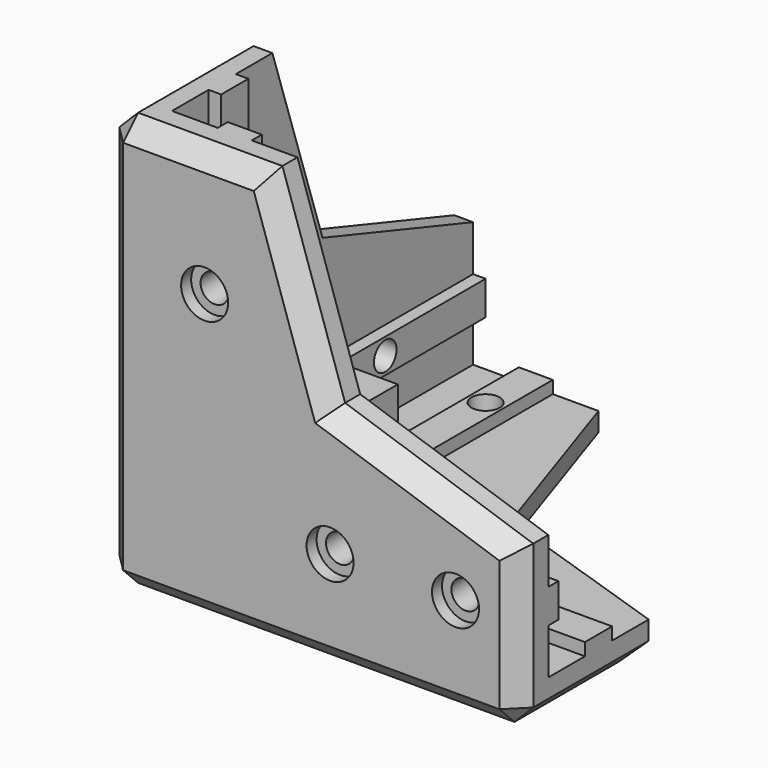
from build123d import *

# Parameters (mm, degrees)
F1_DEPTH  = 6
F3_DEPTH  = 20
F5_DEPTH  = 40
F7_DEPTH  = 60
F9_DEPTH  = 2
F11_DEPTH = 2
F13_DEPTH = 2
F14_R     = 2.25
F15_DEPTH = 8
F16_R     = 2.25
F17_DEPTH = 8
F18_R     = 2.25
F19_DEPTH = 8
F20_R     = 3.75
F21_DEPTH = 2
F22_R     = 3.75
F23_DEPTH = 2
F24_R     = 3.75
F25_DEPTH = 2
F26_W     = 20
F26_H     = 20
F27_DEPTH = 20
F29_DEPTH = 6
F31_DEPTH = 6
F33_DEPTH = 6
F34_SIZE  = 3


with BuildPart() as f1:
    # F0 (on Top) → F1 (new body)
    with BuildSketch(Plane.XY):
        Polygon((0, 66), (0, 0), (66, 0), (66, 26), (26, 26), (26, 66), align=None)
    extrude(amount=F1_DEPTH)

    # F2 (on face) → F3 (join)
    with BuildSketch(Plane.XY.offset(6)):
        Polygon((6, 66), (0, 66), (0, 0), (66, 0), (66, 6), (6, 6), align=None)
    extrude(amount=F3_DEPTH)

    # F4 (on face) → F5 (join)
    with BuildSketch(Plane.XY.offset(26)):
        Polygon((6, 6), (6, 26), (0, 26), (0, 0), (26, 0), (26, 6), align=None)
    extrude(amount=F5_DEPTH)

    # F6 (on face) → F7 (join)
    with BuildSketch(Plane.XY.offset(6)):
        Polygon((13.29, 6), (16, 6), (18.71, 6), (18.71, 8), (13.29, 8), align=None)
        Polygon((6, 18.71), (6, 16), (6, 13.29), (8, 13.29), (8, 18.71), align=None)
    extrude(amount=F7_DEPTH)

    # F8 (on face) → F9 (join)
    with BuildSketch(Plane.XY.offset(6)):
        Polygon((66, 13.29), (66, 16), (66, 18.71), (26, 18.71), (26, 13.29), align=None)
        Polygon((18.71, 66), (16, 66), (13.29, 66), (13.29, 26), (18.71, 26), align=None)
    extrude(amount=F9_DEPTH)

    # F10 (on face) → F11 (join)
    with BuildSketch(Plane(origin=(0, 6, 0), x_dir=(-1, 0, 0), z_dir=(0, 1, 0))):
        Polygon((-66, 18.71), (-66, 16), (-66, 13.29), (-26, 13.29), (-26, 16), (-26, 18.71), align=None)
    extrude(amount=F11_DEPTH)

    # F12 (on face) → F13 (join)
    with BuildSketch(Plane.YZ.offset(6)):
        Polygon((66, 13.29), (66, 16), (66, 18.71), (26, 18.71), (26, 13.29), align=None)
    extrude(amount=F13_DEPTH)

    # F14 (on face) → F15 (cut, through all)
    with BuildSketch(Plane.XZ):
        with Locations((56, 16)):
            Circle(F14_R)
        with Locations((16, 46)):
            Circle(F14_R)
        with Locations((36, 16)):
            Circle(F14_R)
    extrude(amount=-F15_DEPTH, mode=Mode.SUBTRACT)

    # F16 (on face) → F17 (cut, through all)
    with BuildSketch(Plane(origin=(0, 0, 0), x_dir=(0, -1, 0), z_dir=(-1, 0, 0))):
        with Locations((-16, 56)):
            Circle(F16_R)
        with Locations((-46, 16)):
            Circle(F16_R)
        with Locations((-16, 36)):
            Circle(F16_R)
    extrude(amount=-F17_DEPTH, mode=Mode.SUBTRACT)

    # F18 (on face) → F19 (cut, through all)
    with BuildSketch(Plane(origin=(0, 0, 0), x_dir=(1, 0, 0), z_dir=(0, 0, -1))):
        with Locations((46, -16)):
            Circle(F18_R)
        with Locations((16, -56)):
            Circle(F18_R)
        with Locations((16, -36)):
            Circle(F18_R)
    extrude(amount=-F19_DEPTH, mode=Mode.SUBTRACT)

    # F20 (on face) → F21 (cut)
    with BuildSketch(Plane.XZ):
        with Locations((16, 46)):
            Circle(F20_R)
        with Locations((36, 16)):
            Circle(F20_R)
        with Locations((56, 16)):
            Circle(F20_R)
    extrude(amount=-F21_DEPTH, mode=Mode.SUBTRACT)

    # F22 (on face) → F23 (cut)
    with BuildSketch(Plane(origin=(0, 0, 0), x_dir=(0, -1, 0), z_dir=(-1, 0, 0))):
        with Locations((-16, 56)):
            Circle(F22_R)
        with Locations((-46, 16)):
            Circle(F22_R)
        with Locations((-16, 36)):
            Circle(F22_R)
    extrude(amount=-F23_DEPTH, mode=Mode.SUBTRACT)

    # F24 (on face) → F25 (cut)
    with BuildSketch(Plane(origin=(0, 0, 0), x_dir=(1, 0, 0), z_dir=(0, 0, -1))):
        with Locations((16, -56)):
            Circle(F24_R)
        with Locations((46, -16)):
            Circle(F24_R)
        with Locations((16, -36)):
            Circle(F24_R)
    extrude(amount=-F25_DEPTH, mode=Mode.SUBTRACT)

    # F26 (on face) → F27 (join)
    with BuildSketch(Plane.XY.offset(6)):
        with Locations((16, 16)):
            Rectangle(F26_W, F26_H)
    extrude(amount=F27_DEPTH)

    # F28 (on face) → F29 (join)
    with BuildSketch(Plane.XZ):
        Polygon((36, 36), (26, 66), (26, 26), (66, 26), align=None)
    extrude(amount=-F29_DEPTH)

    # F30 (on face) → F31 (join)
    with BuildSketch(Plane(origin=(0, 0, 0), x_dir=(0, -1, 0), z_dir=(-1, 0, 0))):
        Polygon((-26, 26), (-26, 66), (-36, 36), (-66, 26), align=None)
    extrude(amount=-F31_DEPTH)

    # F32 (on face) → F33 (join)
    with BuildSketch(Plane(origin=(0, 0, 0), x_dir=(1, 0, 0), z_dir=(0, 0, -1))):
        Polygon((36, -36), (66, -26), (26, -26), (26, -66), align=None)
    extrude(amount=-F33_DEPTH)

    # F34
    f34_edges = [f1.edges().sort_by_distance(p)[0] for p in [
        (33, 0, 0),
        (66, 13, 0),
        (51, 31, 0),
        (31, 51, 0),
        (13, 66, 0),
        (0, 33, 0),
        (0, 66, 13),
        (0, 51, 31),
        (0, 31, 51),
        (0, 13, 66),
        (0, 0, 33),
        (66, 0, 13),
        (51, 0, 31),
        (31, 0, 51),
        (13, 0, 66),
    ]]
    chamfer(f34_edges, length=F34_SIZE)


solid = f1.part
